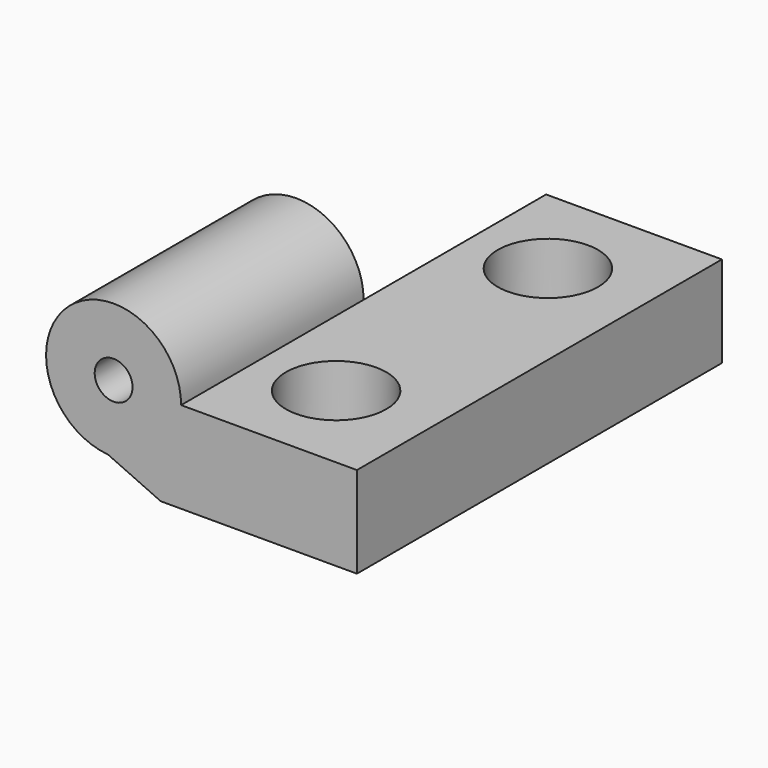
from build123d import *

# Parameters (mm, degrees)
F0_W           = 16
F0_H           = 15
F0_R           = 1.65
F1_DEPTH       = 3
F2_R           = 2.2197148543
F3_DEPTH       = 15
F4_R           = 0.622015
F5_DEPTH       = 25
F7_DEPTH       = 25
F9_DEPTH       = 15
F10_W          = 7.79368474
F10_H          = 8.6547567695
F11_DEPTH      = 25
F11_DEPTH_BACK = 25


with BuildPart() as f1:
    # F0 (on Top) → F1 (new body)
    with BuildSketch(Plane.XY):
        with Locations((8, 7.5)):
            Rectangle(F0_W, F0_H)
        with Locations((3.0942130834, 3.1138566653)):
            Circle(F0_R, mode=Mode.SUBTRACT)
        with Locations((12.8244230834, 3.1138566653)):
            Circle(F0_R, mode=Mode.SUBTRACT)
        with Locations((3.0942130834, 11.8174366653)):
            Circle(F0_R, mode=Mode.SUBTRACT)
        with Locations((12.8244230834, 11.8174366653)):
            Circle(F0_R, mode=Mode.SUBTRACT)
    extrude(amount=F1_DEPTH)

    # F2 (on face) → F3 (join, through all)
    with BuildSketch(Plane(origin=(0, 15, 0), x_dir=(-1, 0, 0), z_dir=(0, 1, 0))):
        with Locations((-8, 3)):
            Circle(F2_R)
    extrude(amount=-F3_DEPTH)

    # F4 (on face) → F5 (cut)
    with BuildSketch(Plane(origin=(0, 15, 0), x_dir=(-1, 0, 0), z_dir=(0, 1, 0))):
        with Locations((-8, 3)):
            Circle(F4_R)
        Polygon((-8, 0.8955585654), (-9.5511529364, 0), (-6.4488470636, 0), align=None)
    extrude(amount=-F5_DEPTH, mode=Mode.SUBTRACT)

    # F6 (on face) → F7 (cut)
    with BuildSketch(Plane(origin=(0, 15, 0), x_dir=(-1, 0, 0), z_dir=(0, 1, 0))):
        with BuildLine():
            ThreePointArc((-5.7802851457, 3), (-6.4976685136, 1.3659454907), (-8.1861204126, 0.7881018951))
            Line((-8.1861204126, 0.7881018951), (-9.5511529364, 0))
            Line((-9.5511529364, 0), (0, -1.0680041742))
            Line((0, -1.0680041742), (0, 3))
            Line((0, 3), (-5.7802851457, 3))
        make_face()
    extrude(amount=-F7_DEPTH, mode=Mode.SUBTRACT)

    # F8 (on face) → F9 (join, through all)
    with BuildSketch(Plane(origin=(0, 15, 0), x_dir=(-1, 0, 0), z_dir=(0, 1, 0))):
        Polygon((-8, 0.8955585654), (-9.5511529364, 0), (-7.8138795874, 0.7881018951), align=None)
    extrude(amount=-F9_DEPTH)

    # F10 (on face) → F11 (cut, two sides)
    with BuildSketch(Plane.XY.offset(3)) as f11_sk:
        with Locations((6.3228724843, 11.8273783848)):
            Rectangle(F10_W, F10_H)
    extrude(amount=-F11_DEPTH, mode=Mode.SUBTRACT)
    extrude(f11_sk.sketch, amount=F11_DEPTH_BACK, mode=Mode.SUBTRACT)


solid = f1.part
